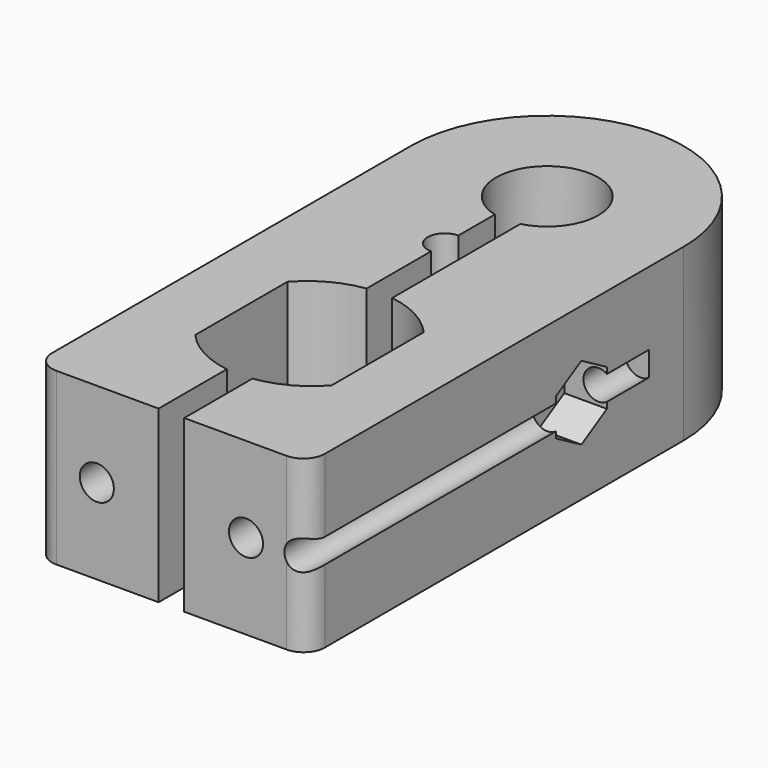
from build123d import *

# Parameters (mm, degrees)
PAD001_DEPTH    = 20
SKETCH012_R     = 1.75
POCKET008_DEPTH = 50
POCKET009_DEPTH = 5
POCKET010_DEPTH = 15
SKETCH015_R     = 2
POCKET011_DEPTH = 15
SKETCH016_R     = 8.1
POCKET012_DEPTH = 10


with BuildPart() as part:
    # Sketch011 → Pad001 (new body)
    with BuildSketch(Plane.XY):
        with BuildLine():
            Line((-8, -28.1), (-8, -41.6))
            ThreePointArc((-8, -41.6), (-5.061117, -43.925857), (-1.5, -45.094227))
            Line((-1.5, -55.094227), (-1.5, -45.094227))
            Line((-13.5, -55.094227), (-1.5, -55.094227))
            ThreePointArc((-16, -52.594227), (-15.267767, -54.361994), (-13.5, -55.094227))
            Line((-16, 0), (-16, -52.594227))
            ThreePointArc((16, 0), (0, 16), (-16, 0))
            Line((16, -52.594227), (16, 0))
            ThreePointArc((13.5, -55.094227), (15.267767, -54.361994), (16, -52.594227))
            Line((1.5, -55.094227), (13.5, -55.094227))
            Line((1.5, -55.094227), (1.5, -45.094227))
            ThreePointArc((1.5, -45.094227), (5.061117, -43.925857), (8, -41.6))
            Line((8, -41.6), (8, -28.1))
            ThreePointArc((8, -28.1), (5.061117, -25.774143), (1.5, -24.605773))
            Line((1.5, -5.809475), (1.5, -24.605773))
            ThreePointArc((1.5, -5.809475), (0, 6), (-1.5, -5.809475))
            Line((-1.5, -5.809475), (-1.5, -11.150936))
            ThreePointArc((-1.5, -11.150936), (-3.5, -13.150936), (-1.5, -15.150936))
            Line((-1.5, -15.150936), (-1.5, -24.605773))
            ThreePointArc((-1.5, -24.605773), (-5.061117, -25.774143), (-8, -28.1))
        make_face()
    extrude(amount=PAD001_DEPTH)

    # Sketch012 (on Face9 of Pad001) → Pocket008 (cut)
    with BuildSketch(Plane.XZ.offset(55.094227)):
        with Locations((15, 10)):
            Circle(SKETCH012_R)
    extrude(amount=-POCKET008_DEPTH, mode=Mode.SUBTRACT)

    # Sketch013 (on Face17 of Pocket008) → Pocket009 (cut)
    with BuildSketch(Plane(origin=(16, 0, 0), x_dir=(0, -1, 0), z_dir=(-1, 0, 0))):
        Polygon((18.75, 7.834936), (18.75, 12.165064), (15, 14.330127), (11.25, 12.165064), (11.25, 7.834936), (15, 5.669873), align=None)
    extrude(amount=POCKET009_DEPTH, mode=Mode.SUBTRACT)

    # Sketch014 → Pocket010 (cut)
    with BuildSketch(Plane(origin=(0, 0, 0), x_dir=(1, 0, 0), z_dir=(0, 0, -1))):
        Polygon((-7, 50.72662), (-6.15, 50.72662), (-6.15, 46.72662), (-11.85, 46.72662), (-11.85, 50.72662), (-11, 50.72662), align=None)
        Polygon((11, 50.72662), (11.85, 50.72662), (11.85, 46.72662), (6.15, 46.72662), (6.15, 50.72662), (7, 50.72662), align=None)
    extrude(amount=-POCKET010_DEPTH, mode=Mode.SUBTRACT)

    # Sketch015 (on Face19 of Pocket010) → Pocket011 (cut)
    with BuildSketch(Plane.XZ.offset(55.094227)):
        with Locations((-8.75, 10)):
            Circle(SKETCH015_R)
        with Locations((8.75, 10)):
            Circle(SKETCH015_R)
    extrude(amount=-POCKET011_DEPTH, mode=Mode.SUBTRACT)

    # Sketch016 (on Face4 of Pocket011) → Pocket012 (cut)
    with BuildSketch(Plane(origin=(0, 0, 0), x_dir=(1, 0, 0), z_dir=(0, 0, -1))):
        Circle(SKETCH016_R)
    extrude(amount=-POCKET012_DEPTH, mode=Mode.SUBTRACT)


solid = part.part
